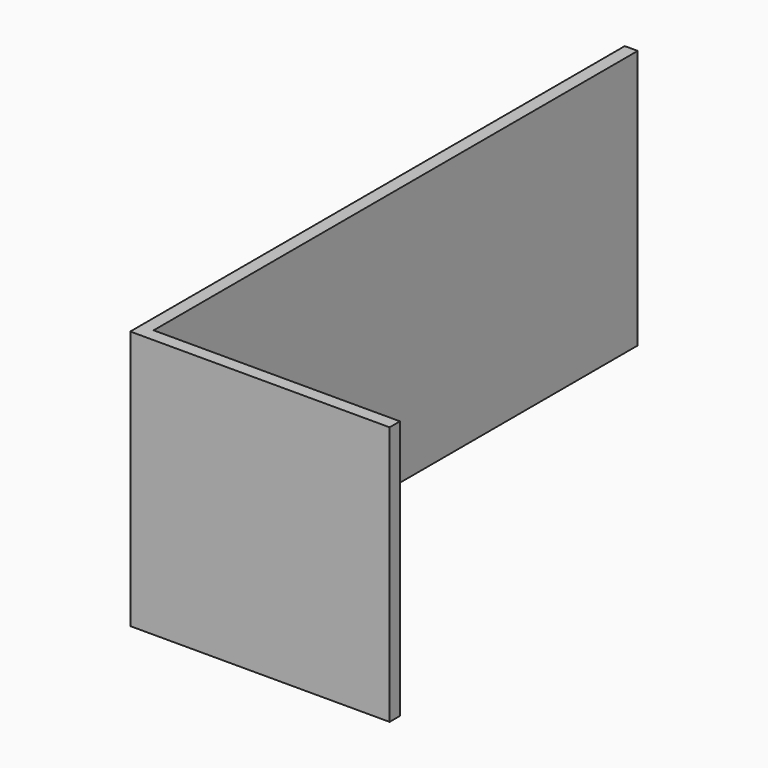
from build123d import *

# Parameters (mm, degrees)
F0_W     = 500
F0_H     = 50
F0_H_2   = 224.9779105186
F0_H_3   = 225.0220894814
F1_DEPTH = 30
F2_W     = 30
F2_H     = 600
F3_DEPTH = 1400


with BuildPart() as f1:
    # F0 (on Front) → F1 (new body)
    with BuildSketch(Plane.XZ):
        Polygon((0, 600), (0, 0), (50, 0), (50, 50), (50, 275.0220894814), (50, 325.0220894814), (50, 550), (50, 600), align=None)
        with Locations((300, 575)):
            Rectangle(F0_W, F0_H)
        with Locations((300, 437.5110447407)):
            Rectangle(F0_W, F0_H_2)
        with Locations((300, 300.0220894814)):
            Rectangle(F0_W, F0_H)
        with Locations((300, 162.5110447407)):
            Rectangle(F0_W, F0_H_3)
        with Locations((300, 25)):
            Rectangle(F0_W, F0_H)
        Polygon((550, 50), (550, 0), (600, 0), (600, 600), (550, 600), (550, 550), (550, 325.0220894814), (550, 275.0220894814), align=None)
    extrude(amount=-F1_DEPTH)

    # F2 (on face) → F3 (join)
    with BuildSketch(Plane(origin=(0, 30, 0), x_dir=(-1, 0, 0), z_dir=(0, 1, 0))):
        with Locations((-15, 300)):
            Rectangle(F2_W, F2_H)
    extrude(amount=F3_DEPTH)


solid = f1.part
